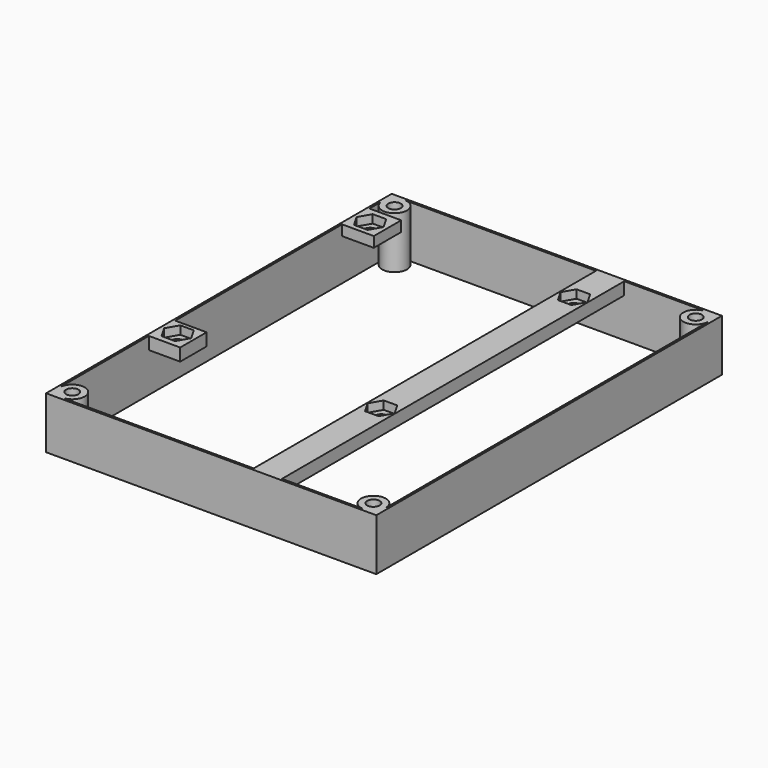
from build123d import *

# Parameters (mm, degrees)
SKETCH007_W     = 79.5
SKETCH007_H     = 104
SKETCH007_R     = 1.5
PAD002_DEPTH    = 12.5
SKETCH006_W     = 8.021301
SKETCH006_H     = 8.234894
SKETCH006_R     = 1.5
PAD001_DEPTH    = 2.5
POCKET005_DEPTH = 2
SKETCH033_W     = 7.946812
SKETCH033_H     = 7.946812
SKETCH033_R     = 1.5
PAD003_DEPTH    = 3
SKETCH034_W     = 6.801386
SKETCH034_H     = 103.670945
SKETCH034_R     = 1.5
PAD004_DEPTH    = 3
POCKET006_DEPTH = 2
POCKET007_DEPTH = 2
POCKET008_DEPTH = 2


with BuildPart() as part:
    # Sketch007 → Pad002 (new body)
    with BuildSketch(Plane.XY):
        with Locations((-2.25, 6.5)):
            Rectangle(SKETCH007_W, SKETCH007_H)
        with Locations((-38.5, 55)):
            Circle(SKETCH007_R, mode=Mode.SUBTRACT)
        with Locations((34, 55)):
            Circle(SKETCH007_R, mode=Mode.SUBTRACT)
        with Locations((-38.5, -42)):
            Circle(SKETCH007_R, mode=Mode.SUBTRACT)
        with Locations((34, -42)):
            Circle(SKETCH007_R, mode=Mode.SUBTRACT)
        with BuildLine():
            Line((34, -45), (-38.5, -45))
            ThreePointArc((-38.5, -45), (-36.37868, -39.87868), (-41.5, -42))
            Line((-41.5, -42), (-41.5, 55))
            ThreePointArc((-41.5, 55), (-36.37868, 52.87868), (-38.5, 58))
            Line((-38.5, 58), (34, 58))
            ThreePointArc((34, 58), (31.87868, 52.87868), (37, 55))
            Line((37, 55), (37, -42))
            ThreePointArc((37, -42), (31.87868, -39.87868), (34, -45))
        make_face(mode=Mode.SUBTRACT)
    extrude(amount=-PAD002_DEPTH)

    # Sketch006 → Pad001 (join)
    with BuildSketch(Plane.XY):
        with Locations((-37.87762, 47.077984)):
            Rectangle(SKETCH006_W, SKETCH006_H)
        with Locations((-37.997646, 47.010536)):
            Circle(SKETCH006_R, mode=Mode.SUBTRACT)
    extrude(amount=-PAD001_DEPTH)

    # Sketch032 (on Face23 of Pad001) → Pocket005 (cut)
    with BuildSketch(Plane.XY):
        Polygon((-34.726036, 46.982567), (-36.351036, 49.79715), (-39.601036, 49.79715), (-41.226036, 46.982567), (-39.601036, 44.167984), (-36.351036, 44.167984), align=None)
    extrude(amount=-POCKET005_DEPTH, mode=Mode.SUBTRACT)

    # Sketch033 → Pad003 (join)
    with BuildSketch(Plane.XY):
        with Locations((-37.923063, -11.232048)):
            Rectangle(SKETCH033_W, SKETCH033_H)
        with Locations((-37.99107, -11.008605)):
            Circle(SKETCH033_R, mode=Mode.SUBTRACT)
    extrude(amount=-PAD003_DEPTH)

    # Sketch034 → Pad004 (join)
    with BuildSketch(Plane.XY):
        with Locations((10.981288, 6.512218)):
            Rectangle(SKETCH034_W, SKETCH034_H)
        with Locations((11.033937, 47.026531)):
            Circle(SKETCH034_R, mode=Mode.SUBTRACT)
        with Locations((11.033937, -10.967275)):
            Circle(SKETCH034_R, mode=Mode.SUBTRACT)
    extrude(amount=-PAD004_DEPTH)

    # Sketch035 (on Face34 of Pad004) → Pocket006 (cut)
    with BuildSketch(Plane.XY):
        Polygon((-36.326836, -8.14599), (-39.576836, -8.14599), (-41.201836, -10.960573), (-39.576836, -13.775156), (-36.326836, -13.775156), (-34.701836, -10.960573), align=None)
    extrude(amount=-POCKET006_DEPTH, mode=Mode.SUBTRACT)

    # Sketch036 (on Face26 of Pocket006) → Pocket007 (cut)
    with BuildSketch(Plane.XY):
        Polygon((12.678073, 49.85376), (9.428073, 49.85376), (7.803073, 47.039177), (9.428073, 44.224594), (12.678073, 44.224594), (14.303073, 47.039177), align=None)
    extrude(amount=-POCKET007_DEPTH, mode=Mode.SUBTRACT)

    # Sketch037 (on Face26 of Pocket007) → Pocket008 (cut)
    with BuildSketch(Plane.XY):
        Polygon((12.636199, -8.121596), (9.386199, -8.121596), (7.761199, -10.936179), (9.386199, -13.750762), (12.636199, -13.750762), (14.261199, -10.936179), align=None)
    extrude(amount=-POCKET008_DEPTH, mode=Mode.SUBTRACT)


solid = part.part
